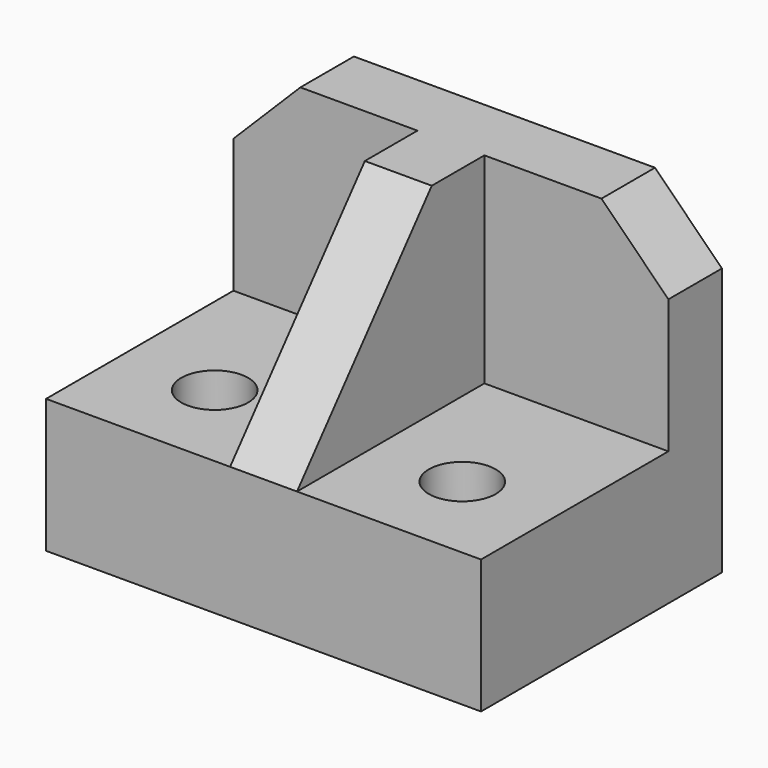
from build123d import *

# Parameters (mm, degrees)
F0_W     = 65
F0_H     = 50
F1_DEPTH = 10
F2_W     = 65
F2_H     = 20
F3_DEPTH = 35
F5_DEPTH = 5
F6_SIZE  = 10
F7_R     = 5
F8_DEPTH = 20.001


with BuildPart() as f1:
    # F0 (on Front) → F1 (new body)
    with BuildSketch(Plane.XZ):
        Rectangle(F0_W, F0_H)
    extrude(amount=F1_DEPTH)

    # F2 (on face) → F3 (join)
    with BuildSketch(Plane.XZ.offset(10)):
        with Locations((0, -15)):
            Rectangle(F2_W, F2_H)
    extrude(amount=F3_DEPTH)

    # F4 (on Right) → F5 (join, symmetric)
    with BuildSketch(Plane.YZ):
        Polygon((-45, -5), (-10, -5), (-10, 25), (-19.8282375932, 25), align=None)
    extrude(amount=F5_DEPTH, both=True)

    # F6
    f6_edges = [f1.edges().sort_by_distance(p)[0] for p in [
        (-32.5, -5, 25),
        (32.5, -5, 25),
    ]]
    chamfer(f6_edges, length=F6_SIZE)

    # F7 (on face) → F8 (cut, through all)
    with BuildSketch(Plane.XY.offset(-5)):
        with Locations((-18.5, -31)):
            Circle(F7_R)
        with Locations((18.5, -31)):
            Circle(F7_R)
    extrude(amount=-F8_DEPTH, mode=Mode.SUBTRACT)


solid = f1.part
